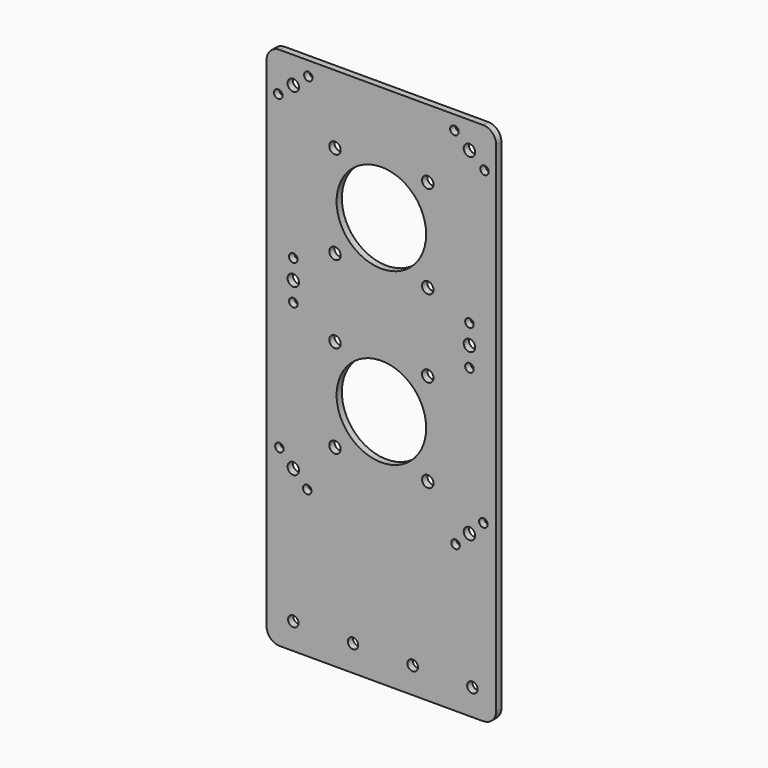
from build123d import *

# Parameters (mm, degrees)
F0_W     = 70
F0_H     = 160
F0_R     = 1.6
F0_R_2   = 1.75
F0_R_3   = 1.3
F0_R_4   = 13.65
F1_DEPTH = 2
F2_R     = 4


with BuildPart() as f1:
    # F0 (on Front) → F1 (new body)
    with BuildSketch(Plane.XZ):
        with Locations((0, -45)):
            Rectangle(F0_W, F0_H)
        with Locations((-26.851443, -117)):
            Circle(F0_R, mode=Mode.SUBTRACT)
        with Locations((-8.651443, -117)):
            Circle(F0_R, mode=Mode.SUBTRACT)
        with Locations((-26.851443, -76)):
            Circle(F0_R_2, mode=Mode.SUBTRACT)
        with Locations((-31.094084, -71.757359)):
            Circle(F0_R_3, mode=Mode.SUBTRACT)
        with Locations((-22.608802, -80.242641)):
            Circle(F0_R_3, mode=Mode.SUBTRACT)
        with Locations((-14.142136, -66.142136)):
            Circle(F0_R_2, mode=Mode.SUBTRACT)
        with Locations((9.548557, -117)):
            Circle(F0_R, mode=Mode.SUBTRACT)
        with Locations((27.748557, -117)):
            Circle(F0_R, mode=Mode.SUBTRACT)
        with Locations((14.142136, -66.142136)):
            Circle(F0_R_2, mode=Mode.SUBTRACT)
        with Locations((0, -52)):
            Circle(F0_R_4, mode=Mode.SUBTRACT)
        with Locations((22.608802, -80.242641)):
            Circle(F0_R_3, mode=Mode.SUBTRACT)
        with Locations((26.851443, -76)):
            Circle(F0_R_2, mode=Mode.SUBTRACT)
        with Locations((31.094084, -71.757359)):
            Circle(F0_R_3, mode=Mode.SUBTRACT)
        with Locations((-26.851443, -31.5)):
            Circle(F0_R_3, mode=Mode.SUBTRACT)
        with Locations((-26.851443, -25.5)):
            Circle(F0_R_2, mode=Mode.SUBTRACT)
        with Locations((-26.851443, -19.5)):
            Circle(F0_R_3, mode=Mode.SUBTRACT)
        with Locations((-14.142136, -37.857864)):
            Circle(F0_R_2, mode=Mode.SUBTRACT)
        with Locations((-14.142136, -14.142136)):
            Circle(F0_R_2, mode=Mode.SUBTRACT)
        with Locations((-31.437331, 22.982382)):
            Circle(F0_R_3, mode=Mode.SUBTRACT)
        with BuildLine():
            ThreePointArc((-25.101443, 26.851443), (-25.234654, 26.181747), (-25.614006, 25.614006))
            ThreePointArc((-25.614006, 25.614006), (-28.08888, 25.614006), (-28.08888, 28.08888))
            ThreePointArc((-28.08888, 28.08888), (-26.181747, 28.468232), (-25.101443, 26.851443))
        make_face(mode=Mode.SUBTRACT)
        with Locations((-22.265556, 30.720505)):
            Circle(F0_R_3, mode=Mode.SUBTRACT)
        with BuildLine():
            ThreePointArc((-12.392136, 14.142136), (-12.525346, 13.47244), (-12.904699, 12.904699))
            ThreePointArc((-12.904699, 12.904699), (-15.379572, 12.904699), (-15.379572, 15.379572))
            ThreePointArc((-15.379572, 15.379572), (-13.47244, 15.758925), (-12.392136, 14.142136))
        make_face(mode=Mode.SUBTRACT)
        with Locations((14.142136, -37.857864)):
            Circle(F0_R_2, mode=Mode.SUBTRACT)
        with Locations((14.142136, -14.142136)):
            Circle(F0_R_2, mode=Mode.SUBTRACT)
        with Locations((26.851443, -31.5)):
            Circle(F0_R_3, mode=Mode.SUBTRACT)
        with Locations((26.851443, -25.5)):
            Circle(F0_R_2, mode=Mode.SUBTRACT)
        with Locations((26.851443, -19.5)):
            Circle(F0_R_3, mode=Mode.SUBTRACT)
        with BuildLine():
            ThreePointArc((-9.652008, 9.652008), (5.223629, 12.610956), (13.65, 0))
            ThreePointArc((13.65, 0), (-5.223629, -12.610956), (-9.652008, 9.652008))
        make_face(mode=Mode.SUBTRACT)
        with Locations((14.142136, 14.142136)):
            Circle(F0_R_2, mode=Mode.SUBTRACT)
        with Locations((22.265556, 30.720505)):
            Circle(F0_R_3, mode=Mode.SUBTRACT)
        with Locations((31.437331, 22.982382)):
            Circle(F0_R_3, mode=Mode.SUBTRACT)
        with Locations((26.851443, 26.851443)):
            Circle(F0_R_2, mode=Mode.SUBTRACT)
    extrude(amount=F1_DEPTH)

    # F2
    f2_edges = [f1.edges().sort_by_distance(p)[0] for p in [
        (35, -1, 35),
        (35, -1, -125),
        (-35, -1, 35),
        (-35, -1, -125),
    ]]
    fillet(f2_edges, radius=F2_R)


solid = f1.part
